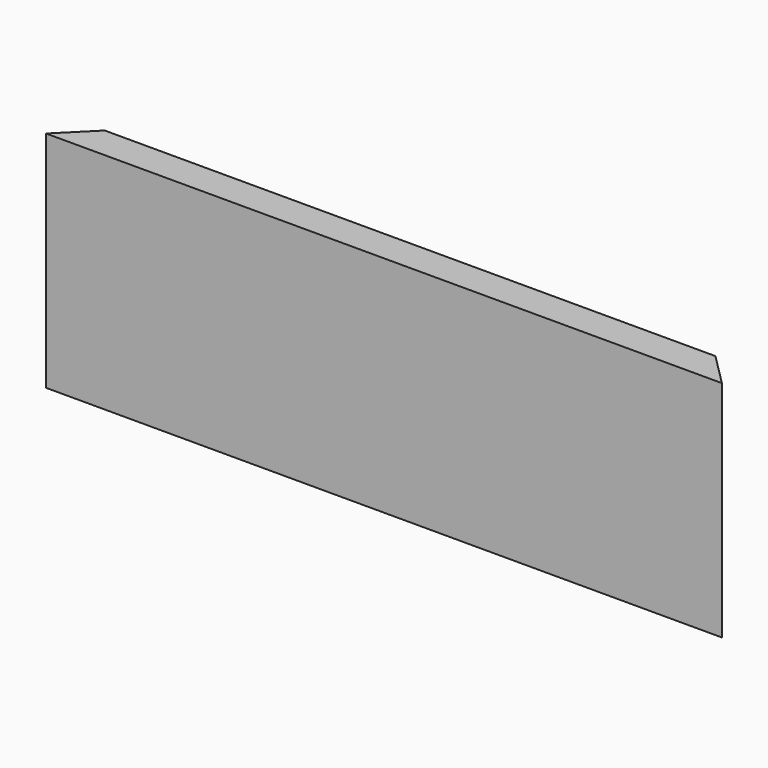
from build123d import *

# Parameters (mm, degrees)
F1_DEPTH = 55
F2_W     = 4
F2_H     = 5
F3_DEPTH = 83
F4_W     = 5
F4_H     = 35
F5_DEPTH = 4


with BuildPart() as f1:
    # F0 (on Top) → F1 (new body)
    with BuildSketch(Plane.XY):
        Polygon((-75, 4), (-83, -4), (83, -4), (75, 4), align=None)
    extrude(amount=F1_DEPTH)

    # F2 (on Right) → F3 (cut, symmetric)
    with BuildSketch(Plane.YZ):
        with Locations((2, 7.5)):
            Rectangle(F2_W, F2_H)
    extrude(amount=F3_DEPTH, both=True, mode=Mode.SUBTRACT)

    # F4 (on Front) → F5 (cut)
    with BuildSketch(Plane.XZ):
        with Locations((-17.5, 27.5)):
            Rectangle(F4_W, F4_H)
    extrude(amount=-F5_DEPTH, mode=Mode.SUBTRACT)


solid = f1.part
